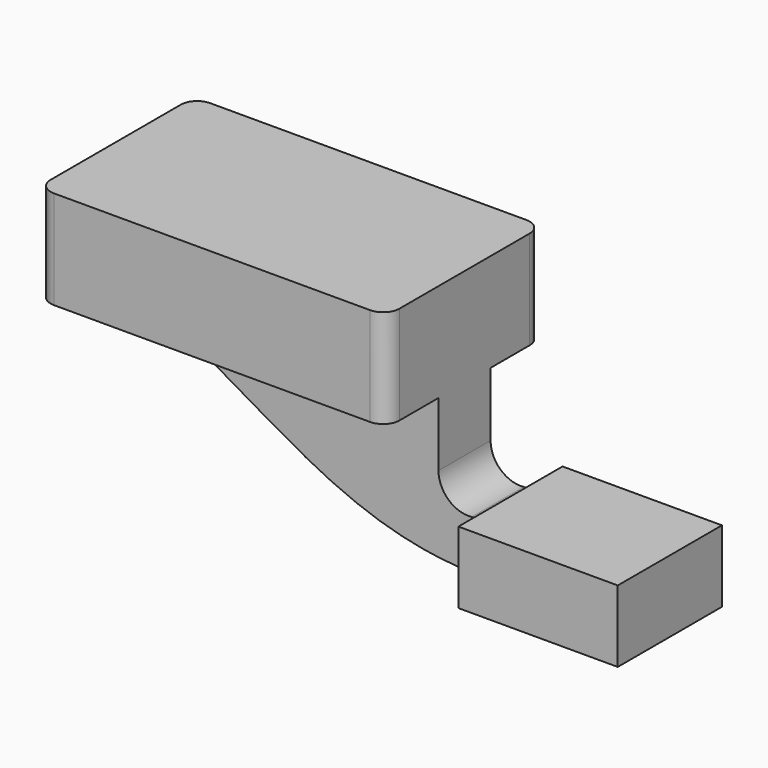
from build123d import *

# Parameters (mm, degrees)
F1_DEPTH = 38.1
F2_DEPTH = 12.7
F0_W     = 22.1240029774
F0_H     = 19.05
F0_H_2   = 5.4648819111
F0_H_3   = 3.4845191814
F3_DEPTH = 25.4
F4_R     = 6.35


with BuildPart() as f1:
    # F0 (on Front) → F1 (new body, symmetric)
    with BuildSketch(Plane.XZ):
        Polygon((48.99266572, -19.2026612566), (68.04266572, -19.2026612566), (68.04266572, 19.2026612566), (-68.04266572, 19.2026612566), (-68.04266572, -19.2026612566), align=None)
    extrude(amount=F1_DEPTH, both=True)

    # F0 (on Front) → F2 (join, symmetric)
    with BuildSketch(Plane.XZ):
        with BuildLine():
            Line((48.99266572, -44.1608317196), (48.99266572, -19.2026612566))
            Line((48.99266572, -19.2026612566), (-68.04266572, -19.2026612566))
            add(Edge.make_bspline(
                [(-68.04266572, -19.2026612566), (-17.0981840349, -23.8250708772), (13.6489767473, -70.337126404), (75.1989668614, -74.6391754041)],
                knots=[0, 0, 0, 0, 154.432294088, 154.432294088, 154.432294088, 154.432294088], degree=3))
            ThreePointArc((75.1989668614, -74.6391754041), (56.4450578335, -64.258715024), (48.99266572, -44.1608317196))
        make_face()
        with BuildLine():
            Line((68.04266572, -44.1608317196), (68.04266572, -19.2026612566))
            Line((68.04266572, -19.2026612566), (48.99266572, -19.2026612566))
            Line((48.99266572, -19.2026612566), (48.99266572, -44.1608317196))
            ThreePointArc((48.99266572, -44.1608317196), (56.4450578335, -64.258715024), (75.1989668614, -74.6391754041))
            add(Edge.make_bspline(
                [(75.1989668614, -74.6391754041), (77.3256902061, -74.7878231622), (79.4891888852, -74.8860766175), (81.6915667764, -74.930466459)],
                knots=[154.432294088, 154.432294088, 154.432294088, 154.432294088, 159.7683593643, 159.7683593643, 159.7683593643, 159.7683593643], degree=3))
            Line((81.6915667764, -74.930466459), (85.9540551901, -74.930466459))
            Line((85.9540551901, -74.930466459), (85.9540551901, -55.880466459))
            Line((85.9540551901, -55.880466459), (80.9756178971, -55.880466459))
            ThreePointArc((80.9756178971, -55.880466459), (71.9113494041, -52.8873873179), (68.04266572, -44.1608317196))
        make_face()
    extrude(amount=F2_DEPTH, both=True)

    # F0 (on Front) → F3 (join, symmetric)
    with BuildSketch(Plane.XZ):
        Polygon((108.0780581675, -52.3959472775), (108.0780581675, -55.880466459), (108.0780581675, -74.930466459), (108.0780581675, -80.3953483701), (148.1291949749, -80.3953483701), (148.1291949749, -52.3959472775), align=None)
        with Locations((97.0160566788, -65.405466459)):
            Rectangle(F0_W, F0_H)
        with Locations((97.0160566788, -77.6629074145)):
            Rectangle(F0_W, F0_H_2)
        with Locations((97.0160566788, -54.1382068683)):
            Rectangle(F0_W, F0_H_3)
    extrude(amount=F3_DEPTH, both=True)

    # F4
    f4_edges = [f1.edges().sort_by_distance(p)[0] for p in [
        (68.042666, -38.1, 0),
        (-68.042666, -38.1, 0),
        (-68.042666, 38.1, 0),
        (68.042666, 38.1, 0),
    ]]
    fillet(f4_edges, radius=F4_R)


solid = f1.part
